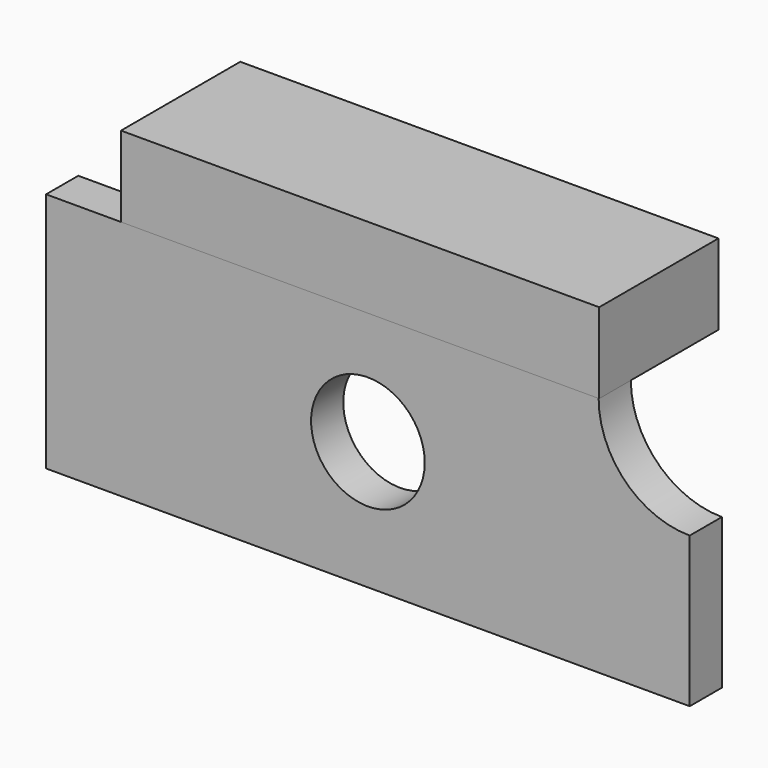
from build123d import *

# Parameters (mm, degrees)
F0_R     = 17.937476
F1_DEPTH = 12.7
F2_W     = 150.962264
F2_H     = 47.064063
F3_DEPTH = 25.4


with BuildPart() as f1:
    # F0 (on Front) → F1 (new body)
    with BuildSketch(Plane.XZ):
        with BuildLine():
            Line((72.837895, 16.709986), (-101.6, 16.709986))
            Line((-101.6, 16.709986), (-101.6, -59.490014))
            Line((-101.6, -59.490014), (101.6, -59.490014))
            Line((101.6, -59.490014), (101.6, -12.052119))
            ThreePointArc((101.6, -12.052119), (81.26212, -3.627894), (72.837895, 16.709986))
        make_face()
        with Locations((0, -19.051408)):
            Circle(F0_R, mode=Mode.SUBTRACT)
    extrude(amount=F1_DEPTH)

    # F2 (on face) → F3 (join)
    with BuildSketch(Plane.XY.offset(16.709986)):
        with Locations((-2.470292, 10.832032)):
            Rectangle(F2_W, F2_H)
    extrude(amount=F3_DEPTH)


solid = f1.part
